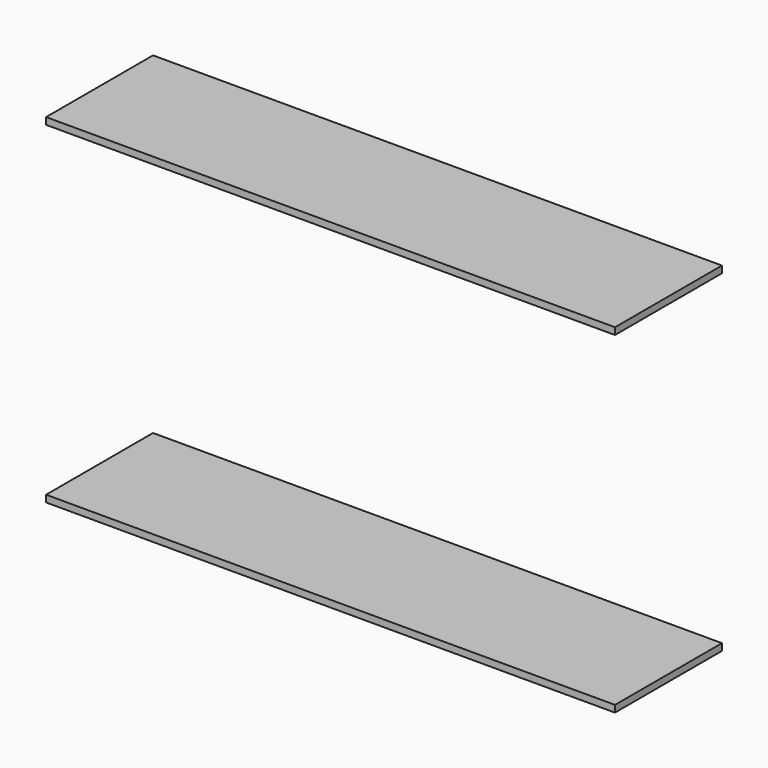
from build123d import *

# Parameters (mm, degrees)
F0_W     = 166
F0_H     = 39
F1_DEPTH = 1


with BuildPart() as f1:
    # F0 (on Top) → F1 (new body, symmetric)
    with BuildSketch(Plane.XY):
        Rectangle(F0_W, F0_H)
    extrude(amount=F1_DEPTH, both=True)


with BuildPart() as f2_1:
    # F2: copy of F1
    add(f1.part.moved(Location((0, 0, -97))))


solid = Compound([f1.part, f2_1.part])
